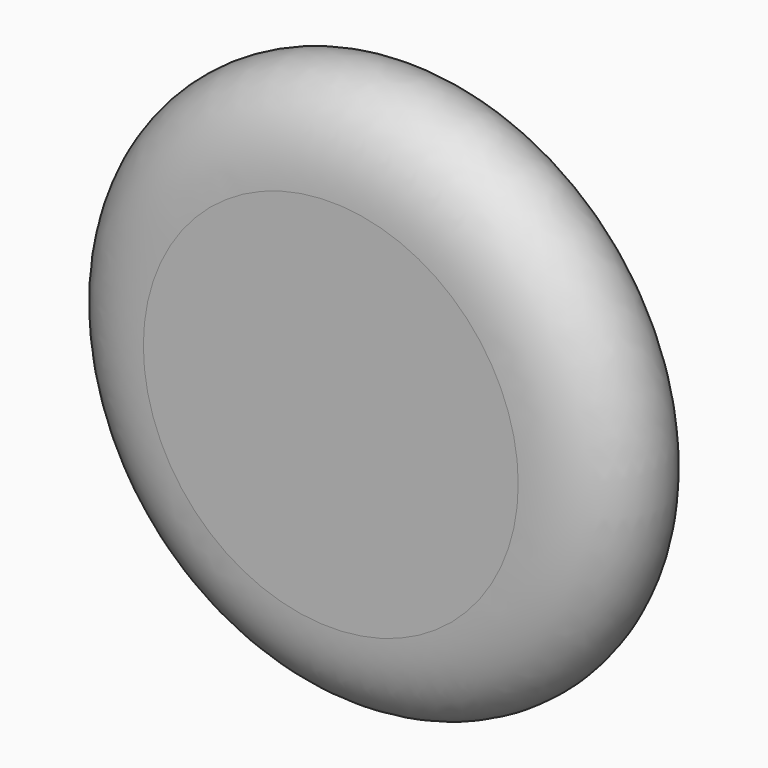
from build123d import *


with BuildPart() as f1:
    # F0 (on Top) → F1 (revolve)
    with BuildSketch(Plane.XY):
        with BuildLine():
            Line((0, 0), (0, -22.5997406512))
            Line((0, -22.5997406512), (22.225, -22.5997406512))
            add(Edge.make_bspline(
                [(22.225, -22.5997406512), (27.7671602704, -22.5997406512), (34.2083821429, -18.4946195538), (32.4036809965, -8.4381165368), (22.1710518676, -7.698090091), (15.5076571484, -3.8742979706), (15.1532867586, -1.4259742337), (15.1532867586, 0)],
                knots=[0, 0, 0, 0, 0.2489290017, 0.4440536452, 0.6688260914, 0.862976603, 1, 1, 1, 1], degree=3))
            Line((15.1532867586, 0), (0, 0))
        make_face()
    revolve(axis=Axis((0, -11.2998703256, 0), (0, 1, 0)))


solid = f1.part
